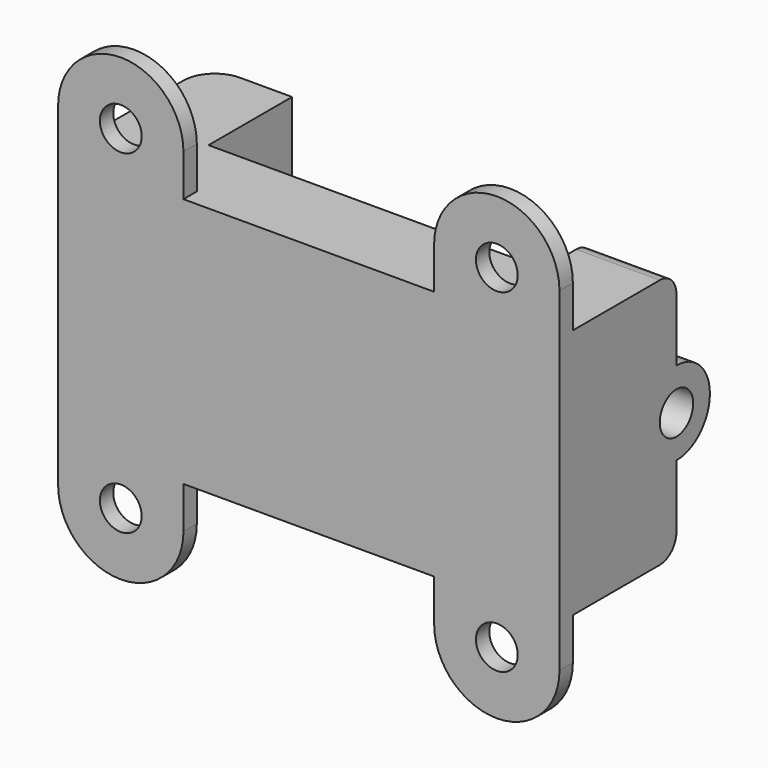
from build123d import *

# Parameters (mm, degrees)
PAD_DEPTH       = 120
FILLET_R        = 15
FILLET001_R     = 10
SKETCH001_R     = 20
PAD001_DEPTH    = 40
SKETCH002_R     = 10
POCKET_DEPTH    = 40
PAD002_DEPTH    = 8
SKETCH004_R     = 10
POCKET001_DEPTH = 8
PAD003_DEPTH    = 8
SKETCH006_R     = 10
POCKET002_DEPTH = 8
PAD004_DEPTH    = 8
SKETCH008_R     = 10
POCKET003_DEPTH = 8


with BuildPart() as part:
    # Sketch → Pad (new body)
    with BuildSketch(Plane.XY):
        Polygon((-39.5, 50), (-39.5, -40), (200.5, -40), (200.5, 30), (160.5, 30), (160.5, 0), (0.5, 0), (0.5, 50), align=None)
    extrude(amount=PAD_DEPTH)

    # Fillet
    fillet_edges = [part.edges().sort_by_distance(p)[0] for p in [
        (-39.5, 50, 60),
    ]]
    fillet(fillet_edges, radius=FILLET_R)

    # Fillet001
    fillet001_edges = [part.edges().sort_by_distance(p)[0] for p in [
        (180.5, 30, 120),
        (180.5, 30, 0),
    ]]
    fillet(fillet001_edges, radius=FILLET001_R)

    # Sketch001 (on Face2 of Fillet001) → Pad001 (join)
    with BuildSketch(Plane.YZ.offset(200.5)):
        with Locations((30, 60)):
            Circle(SKETCH001_R)
    extrude(amount=-PAD001_DEPTH)

    # Sketch002 (on Face12 of Pad001) → Pocket (cut)
    with BuildSketch(Plane.YZ.offset(200.5)):
        with Locations((30, 60)):
            Circle(SKETCH002_R)
    extrude(amount=-POCKET_DEPTH, mode=Mode.SUBTRACT)

    # Sketch003 (on Face4 of Pocket) → Pad002 (join)
    with BuildSketch(Plane.XZ.offset(40)):
        with BuildLine():
            Line((20.5, 140.000001), (20.5, 120))
            Line((20.5, 120), (-39.5, 120))
            Line((-39.5, 120), (-39.5, 140))
            ThreePointArc((20.5, 140.000001), (-9.5, 170), (-39.5, 140))
        make_face()
    extrude(amount=-PAD002_DEPTH)

    # Sketch004 (on Face16 of Pad002) → Pocket001 (cut)
    with BuildSketch(Plane.XZ.offset(40)):
        with Locations((-9.5, 140)):
            Circle(SKETCH004_R)
    extrude(amount=-POCKET001_DEPTH, mode=Mode.SUBTRACT)

    # Sketch005 (on Face4 of Pocket001) → Pad003 (join)
    with BuildSketch(Plane.XZ.offset(40)):
        with BuildLine():
            Line((200.5, 140), (200.5, 120))
            Line((200.5, 120), (140.5, 120))
            Line((140.5, 120), (140.5, 139.999999))
            ThreePointArc((200.5, 140), (170.5, 169.999999), (140.5, 139.999999))
        make_face()
    extrude(amount=-PAD003_DEPTH)

    # Sketch006 (on Face18 of Pad003) → Pocket002 (cut)
    with BuildSketch(Plane.XZ.offset(40)):
        with Locations((170.5, 139.999999)):
            Circle(SKETCH006_R)
    extrude(amount=-POCKET002_DEPTH, mode=Mode.SUBTRACT)

    # Sketch007 (on Face4 of Pocket002) → Pad004 (join)
    with BuildSketch(Plane.XZ.offset(40)):
        with BuildLine():
            Line((-39.5, 0), (20.5, 0))
            Line((20.5, 0), (20.5, -20))
            ThreePointArc((-39.5, -20), (-9.5, -50), (20.5, -20))
            Line((-39.5, -20), (-39.5, 0))
        make_face()
        with BuildLine():
            Line((140.5, 0), (200.5, 0))
            Line((200.5, 0), (200.5, -20))
            ThreePointArc((140.5, -20), (170.5, -49.99997), (200.5, -20))
            Line((140.5, -20), (140.5, 0))
        make_face()
    extrude(amount=-PAD004_DEPTH)

    # Sketch008 (on Face4 of Pad004) → Pocket003 (cut)
    with BuildSketch(Plane.XZ.offset(40)):
        with Locations((-9.5, -20)):
            Circle(SKETCH008_R)
        with Locations((170.5, -19.99997)):
            Circle(SKETCH008_R)
    extrude(amount=-POCKET003_DEPTH, mode=Mode.SUBTRACT)


solid = part.part
